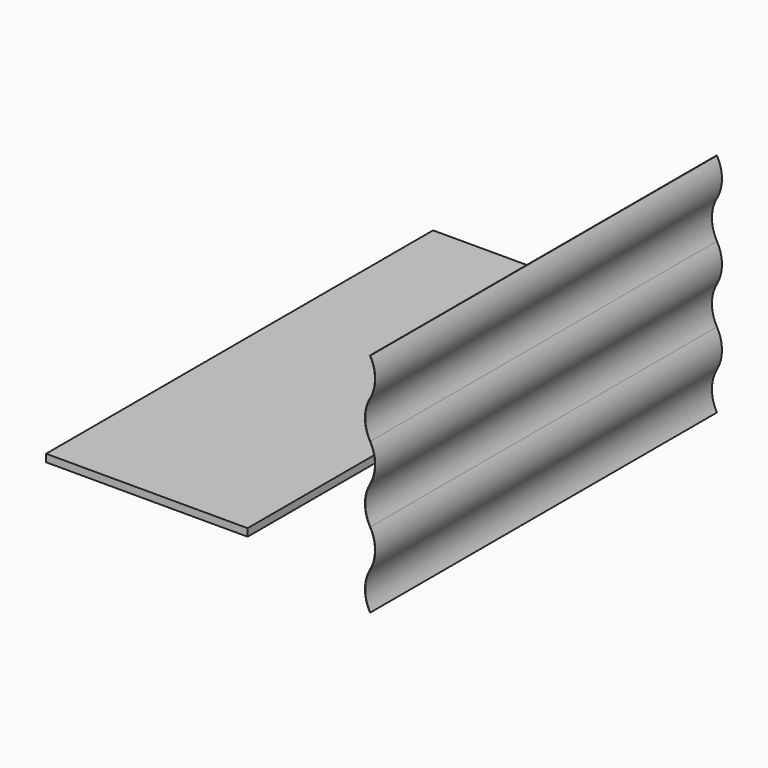
from build123d import *

# Parameters (mm, degrees)
F1_DEPTH = 546.1
F2_W     = 508
F2_H     = 1219.2
F3_DEPTH = 9.525


with BuildPart() as f1:
    # F0 (on Front) → F1 (new body, symmetric)
    with BuildSketch(Plane.XZ):
        with BuildLine():
            ThreePointArc((0, 190.076195), (12.7, 142.557146), (0, 95.038098))
            ThreePointArc((0, 95.038098), (-12.7, 47.519049), (0, 0))
            Line((0, 0), (0.762, 0))
            ThreePointArc((0.762, 0), (-11.938, 47.519049), (0.762, 95.038098))
            ThreePointArc((0.762, 95.038098), (13.462, 142.557146), (0.762, 190.076195))
            ThreePointArc((0.762, 190.076195), (-11.938, 237.595244), (0.762, 285.114293))
            ThreePointArc((0.762, 285.114293), (13.462, 332.633342), (0.762, 380.15239))
            ThreePointArc((0.762, 380.15239), (-11.938, 427.671439), (0.762, 475.190488))
            ThreePointArc((0.762, 475.190488), (13.462, 522.709537), (0.762, 570.228586))
            Line((0.762, 570.228586), (0, 570.228586))
            ThreePointArc((0, 570.228586), (12.7, 522.709537), (0, 475.190488))
            ThreePointArc((0, 475.190488), (-12.7, 427.671439), (0, 380.15239))
            ThreePointArc((0, 380.15239), (12.7, 332.633342), (0, 285.114293))
            ThreePointArc((0, 285.114293), (-12.7, 237.595244), (0, 190.076195))
        make_face()
    extrude(amount=F1_DEPTH, both=True)


with BuildPart() as f3:
    # F2 (on Top) → F3 (new body, symmetric)
    with BuildSketch(Plane.XY):
        with Locations((-655.088946, 179.48472)):
            Rectangle(F2_W, F2_H)
    extrude(amount=F3_DEPTH, both=True)


solid = Compound([f1.part, f3.part])
